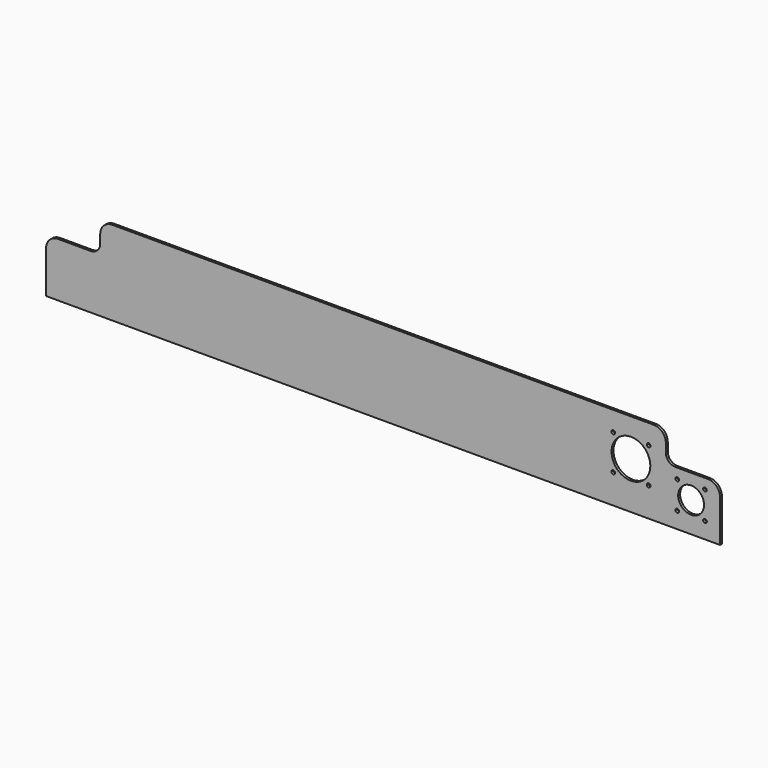
from build123d import *

# Parameters (mm, degrees)
F0_R     = 1.524
F0_R_2   = 10.75
F0_R_3   = 16.1
F1_DEPTH = 2


with BuildPart() as f1:
    # F0 (on Front) → F1 (new body)
    with BuildSketch(Plane.XZ):
        with BuildLine():
            Line((-280, 0), (0, 0))
            Line((0, 0), (280, 0))
            Line((280, 0), (280, 35))
            ThreePointArc((280, 35), (277.071068, 42.071068), (270, 45))
            Line((270, 45), (243, 45))
            ThreePointArc((243, 45), (237.343146, 47.343146), (235, 53))
            Line((235, 53), (235, 60))
            ThreePointArc((235, 60), (232.071068, 67.071068), (225, 70))
            Line((225, 70), (0, 70))
            Line((0, 70), (-225, 70))
            ThreePointArc((-225, 70), (-232.071068, 67.071068), (-235, 60))
            Line((-235, 60), (-235, 53))
            ThreePointArc((-235, 53), (-237.343146, 47.343146), (-243, 45))
            Line((-243, 45), (-270, 45))
            ThreePointArc((-270, 45), (-277.071068, 42.071068), (-280, 35))
            Line((-280, 35), (-280, 0))
        make_face()
        with Locations((244.494, 13.494)):
            Circle(F0_R, mode=Mode.SUBTRACT)
        with Locations((267.506, 13.494)):
            Circle(F0_R, mode=Mode.SUBTRACT)
        with Locations((191.319, 24.319)):
            Circle(F0_R, mode=Mode.SUBTRACT)
        with Locations((220.681, 24.319)):
            Circle(F0_R, mode=Mode.SUBTRACT)
        with Locations((256, 25)):
            Circle(F0_R_2, mode=Mode.SUBTRACT)
        with Locations((206, 39)):
            Circle(F0_R_3, mode=Mode.SUBTRACT)
        with Locations((244.494, 36.506)):
            Circle(F0_R, mode=Mode.SUBTRACT)
        with Locations((267.506, 36.506)):
            Circle(F0_R, mode=Mode.SUBTRACT)
        with Locations((191.319, 53.681)):
            Circle(F0_R, mode=Mode.SUBTRACT)
        with Locations((220.681, 53.681)):
            Circle(F0_R, mode=Mode.SUBTRACT)
    extrude(amount=F1_DEPTH)


solid = f1.part
